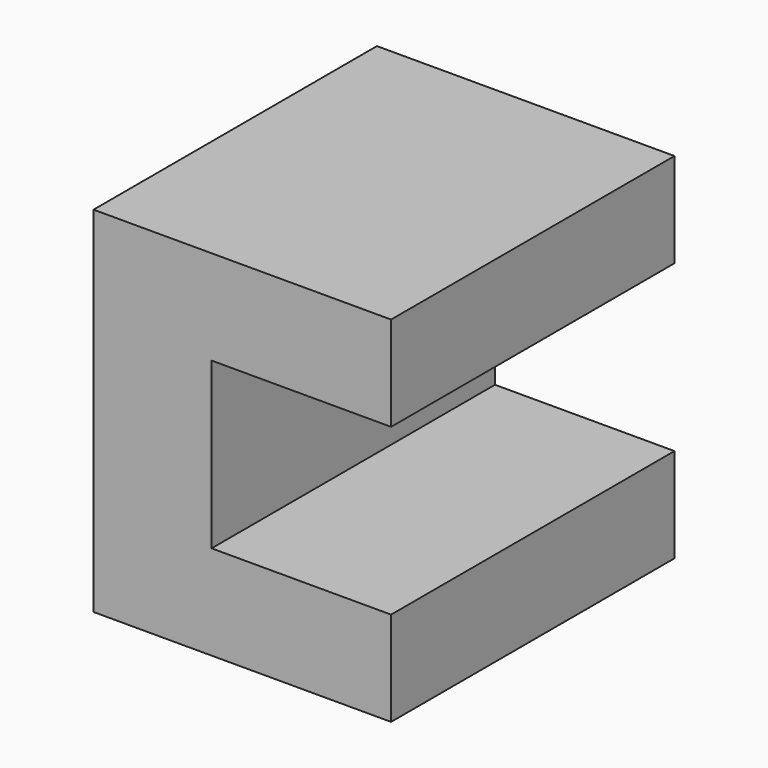
from build123d import *

# Parameters (mm, degrees)
F0_W     = 63
F0_H     = 75
F1_DEPTH = 75
F3_DEPTH = 38


with BuildPart() as f1:
    # F0 (on Top) → F1 (new body)
    with BuildSketch(Plane.XY):
        with Locations((31.5, 37.5)):
            Rectangle(F0_W, F0_H)
    extrude(amount=F1_DEPTH)

    # F2 (on face) → F3 (cut)
    with BuildSketch(Plane.YZ.offset(63)):
        Polygon((0, 20), (37.5, 20), (75, 20), (75, 55), (0, 55), align=None)
    extrude(amount=-F3_DEPTH, mode=Mode.SUBTRACT)


solid = f1.part
